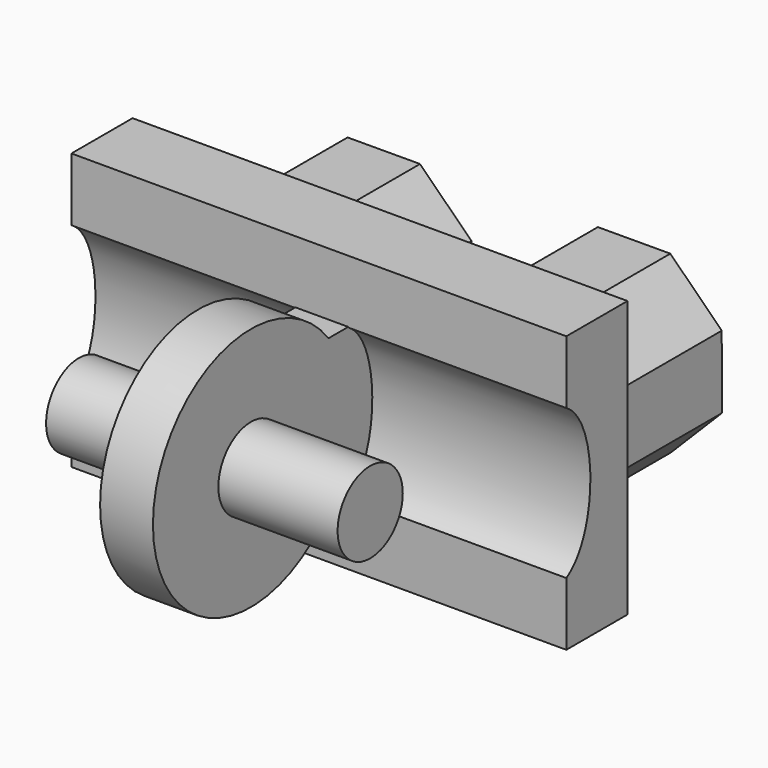
from build123d import *

# Parameters (mm, degrees)
F0_W      = 13.86
F0_H      = 7.73
F1_DEPTH  = 2.14
F3_DEPTH  = 13.861
F4_W      = 1.7220231239
F4_H      = 4.1921688244
F5_DEPTH  = 1.48
F6_R      = 3.43
F7_DEPTH  = 1.48
F8_R      = 1.14
F10_DEPTH = 3.34
F9_R      = 1.1457110781
F11_DEPTH = 3.34
F12_R     = 1.54
F13_DEPTH = 4.39


with BuildPart() as f1:
    # F0 (on Front) → F1 (new body)
    with BuildSketch(Plane.XZ):
        with Locations((0.6576154042, 6.5625002608)):
            Rectangle(F0_W, F0_H)
    extrude(amount=F1_DEPTH)

    # F2 (on face) → F3 (cut, through all)
    with BuildSketch(Plane.YZ.offset(7.5876154042)):
        with BuildLine():
            add(Edge.make_bspline(
                [(-2.14, 4.4675002608), (-1.0178836739, 5.1285764004), (-1.0178836739, 10.7190171735), (-7.3584975292, 6.5625002608), (-3.2052818458, 3.8399072084), (-2.14, 4.4675002608)],
                knots=[0, 0, 0, 0, 0.3449820825, 0.6724910412, 1, 1, 1, 1], degree=3))
        make_face()
    extrude(amount=-F3_DEPTH, mode=Mode.SUBTRACT)

    # F4 (on Right) → F5 (join)
    with BuildSketch(Plane.YZ):
        with Locations((-2.9032976599, 6.5771206282)):
            Rectangle(F4_W, F4_H)
        Polygon((-2.042286098, 8.6732050404), (-2.042286098, 4.481036216), (-1.0486273095, 4.481036216), (-1.0486273095, 8.7523022667), align=None)
    extrude(amount=F5_DEPTH)

    # F6 (on face) → F7 (join)
    with BuildSketch(Plane.YZ.offset(1.48)):
        with Locations((-5.5470176696, 6.5771206282)):
            Circle(F6_R)
    extrude(amount=-F7_DEPTH)

    # F8 (on face) → F10 (join)
    with BuildSketch(Plane.YZ.offset(1.48)):
        with Locations((-5.5470176696, 6.5771206282)):
            Circle(F8_R)
    extrude(amount=F10_DEPTH)

    # F9 (on face) → F11 (join)
    with BuildSketch(Plane(origin=(0, 0, 0), x_dir=(0, -1, 0), z_dir=(-1, 0, 0))):
        with Locations((5.5470176696, 6.5771206282)):
            Circle(F9_R)
    extrude(amount=F11_DEPTH)

    # F12 (on face) → F13 (join)
    with BuildSketch(Plane(origin=(0, 0, 0), x_dir=(-1, 0, 0), z_dir=(0, 1, 0))):
        Polygon((-1.8146777797, 7.6139823431), (-3.245869735, 9.0531328988), (-5.2755083889, 9.0587604791), (-6.7146589446, 7.6275685238), (-6.7202865249, 5.59792987), (-5.2890945696, 4.1587793143), (-3.2594559158, 4.1531517339), (-1.8203053601, 5.5843436892), align=None)
        with Locations((-4.2674821523, 6.6059561065)):
            Circle(F12_R, mode=Mode.SUBTRACT)
        Polygon((1.7335861807, 8.9899811648), (0.294435625, 7.5587892095), (0.2888080447, 5.5291505557), (1.72, 4.09), (3.7496386538, 4.0843724197), (5.1887892095, 5.515564375), (5.2196069168, 7.5449768525), (3.7632248346, 8.9843535845), align=None)
        with Locations((2.7416124173, 6.5371767923)):
            Circle(F12_R, mode=Mode.SUBTRACT)
    extrude(amount=F13_DEPTH)


solid = f1.part
